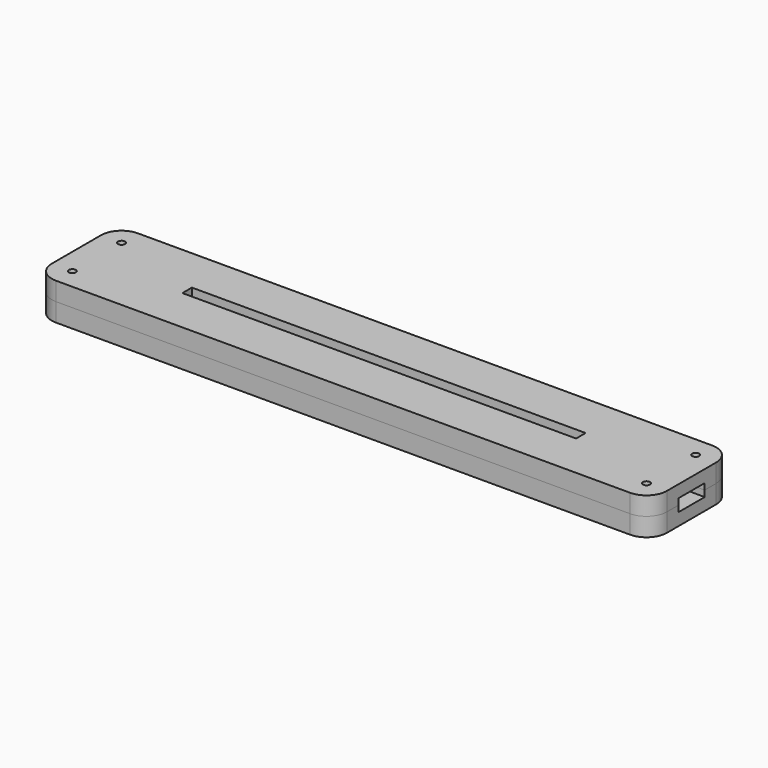
from build123d import *

# Parameters (mm, degrees)
BOX_BOTTOM_HALF_0_W     = 152
BOX_BOTTOM_HALF_0_H     = 27
BOX_BOTTOM_HALF_0_DEPTH = 5.5
SKETCH_W                = 150
SKETCH_H                = 25
PAD_DEPTH               = 3
PAD001_DEPTH            = 3
SKETCH004_W             = 150
SKETCH004_H             = 25
SKETCH004_W_2           = 96
SKETCH004_H_2           = 2.9
PAD002_DEPTH            = 3
SKETCH005_R             = 0.85
POCKET_DEPTH            = 313.671314
POLARPATTERN_COUNT      = 2
POLARPATTERN001_COUNT   = 2
POLARPATTERN002_COUNT   = 2
FILLET_R                = 5


with BuildPart() as box_bottom_half_0_body:
    # box_bottom_half_0 → box_bottom_half_0 (new body)
    with BuildSketch(Plane(origin=(-76, -13.5, -1), x_dir=(1, 0, 0), z_dir=(0, 0, 1))):
        with Locations((76, 13.5)):
            Rectangle(BOX_BOTTOM_HALF_0_W, BOX_BOTTOM_HALF_0_H)
    extrude(amount=BOX_BOTTOM_HALF_0_DEPTH)


with BuildPart() as body:
    # Sketch → Pad (new body)
    with BuildSketch(Plane.XY):
        Rectangle(SKETCH_W, SKETCH_H)
    extrude(amount=PAD_DEPTH)

    # Sketch001 (on Face6 of Pad) → Pad001 (join)
    with BuildSketch(Plane.XY.offset(3)):
        Polygon((-75, 12.5), (75, 12.5), (75, 4), (50, 4), (50, 5), (-50, 5), (-50, 4), (-52.25, 4), (-52.25, 9.2), (-72.25, 9.2), (-72.25, 4.5), (-75, 4.5), align=None)
        Polygon((-75, -12.5), (75, -12.5), (75, -4), (50, -4), (50, -5), (-50, -5), (-50, -4), (-52.25, -4), (-52.25, -9.2), (-72.25, -9.2), (-72.25, -4.5), (-75, -4.5), align=None)
    extrude(amount=PAD001_DEPTH)

    # Sketch004 (on Face12 of Pad001) → Pad002 (join)
    with BuildSketch(Plane.XY.offset(6)):
        Rectangle(SKETCH004_W, SKETCH004_H)
        Rectangle(SKETCH004_W_2, SKETCH004_H_2, mode=Mode.SUBTRACT)
    extrude(amount=PAD002_DEPTH)

    # Sketch005 (on Face34 of Pad002) → Pocket (cut, through all)
    with BuildSketch(Plane.XY.offset(9)):
        with Locations((-70, 7.5)):
            Circle(SKETCH005_R)
    pocket = extrude(amount=-POCKET_DEPTH, mode=Mode.SUBTRACT)

    # PolarPattern: Pocket ×2 about axis
    polarpattern_axis = Axis((0, 0, 9), (0, 0, 1))
    for i in range(1, POLARPATTERN_COUNT):
        add(pocket.rotate(polarpattern_axis, i * 360 / POLARPATTERN_COUNT), mode=Mode.SUBTRACT)

    # PolarPattern001: Pocket ×2 about axis
    polarpattern001_axis = Axis((0, 0, 0), (0, 1, 0))
    for i in range(1, POLARPATTERN001_COUNT):
        add(pocket.rotate(polarpattern001_axis, i * 360 / POLARPATTERN001_COUNT), mode=Mode.SUBTRACT)

    # PolarPattern002: Pocket ×2 about axis
    polarpattern002_axis = Axis((0, 0, 0), (1, 0, 0))
    for i in range(1, POLARPATTERN002_COUNT):
        add(pocket.rotate(polarpattern002_axis, i * 360 / POLARPATTERN002_COUNT), mode=Mode.SUBTRACT)

    # Fillet
    fillet_edges = [body.edges().sort_by_distance(p)[0] for p in [
        (75, -12.5, 7.5),
        (75, 12.5, 7.5),
        (-75, -12.5, 7.5),
        (-75, 12.5, 7.5),
    ]]
    fillet(fillet_edges, radius=FILLET_R)


with BuildPart() as bottom_half_0_body:
    # bottom_half_0 base: copy of Body
    add(body.part)

    # bottom_half_0: intersect box_bottom_half_0 body
    add(box_bottom_half_0_body.part, mode=Mode.INTERSECT)


with BuildPart() as top_half_0_body:
    # top_half_0 base: copy of Body
    add(body.part)

    # top_half_0: cut box_bottom_half_0 body
    add(box_bottom_half_0_body.part, mode=Mode.SUBTRACT)


solid = Compound([bottom_half_0_body.part, top_half_0_body.part])
